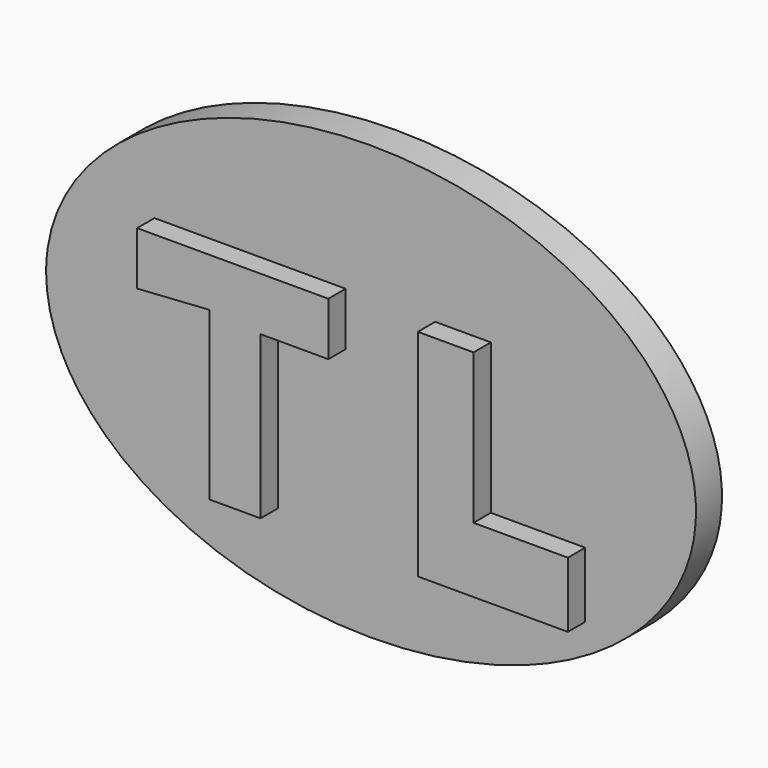
from build123d import *

# Parameters (mm, degrees)
F1_DEPTH = 3.81
F3_DEPTH = 6.35


with BuildPart() as f1:
    # F0 (on Front) → F1 (new body)
    with BuildSketch(Plane.XZ):
        with BuildLine():
            add(Edge.make_bspline(
                [(-38.1, 0), (-38.1, -43.994091), (19.05, -21.997045), (76.2, 0), (19.05, 21.997045), (-38.1, 43.994091), (-38.1, 0)],
                knots=[0, 0, 0, 2.094395, 2.094395, 4.18879, 4.18879, 6.283185, 6.283185, 6.283185], degree=2, weights=[1, 0.5, 1, 0.5, 1, 0.5, 1]))
        make_face()
    extrude(amount=F1_DEPTH)

    # F2 (on Front) → F3 (join)
    with BuildSketch(Plane.XZ):
        Polygon((-25.393244, 3.404681), (-16.881544, 3.972128), (-16.881544, -15.604788), (-10.923349, -15.604788), (-10.923349, 3.404681), (-2.979094, 3.404681), (-2.979094, 9.646595), (-25.393244, 9.646595), align=None)
        Polygon((14.044307, 9.646595), (7.51867, 9.646595), (7.51867, -15.604788), (25.109522, -15.604788), (25.109522, -7.944255), (14.044307, -7.944255), align=None)
    extrude(amount=F3_DEPTH)


solid = f1.part
